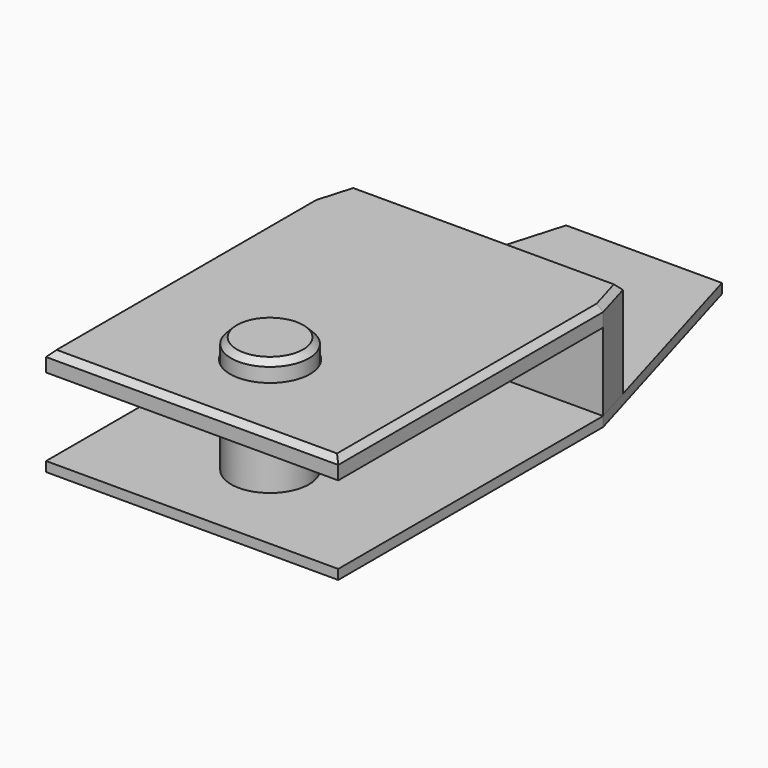
from build123d import *

# Parameters (mm, degrees)
SKETCH001_R     = 1.5
PAD_DEPTH       = 0.5
SKETCH002_R     = 2
PAD001_DEPTH    = 6
CHAMFER_SIZE    = 0.3
SKETCH003_R     = 2.05
PAD002_DEPTH    = 1
PAD003_DEPTH    = 5
CHAMFER001_SIZE = 0.3
CHAMFER002_SIZE = 0.3


with BuildPart() as back:
    # Sketch001 → Pad (new body)
    with BuildSketch(Plane.XY):
        Polygon((-7.5, -5), (7.5, -5), (7.5, 12), (4, 24), (-4, 24), (-7.5, 12), align=None)
        with Locations((0, 18)):
            Circle(SKETCH001_R, mode=Mode.SUBTRACT)
    extrude(amount=PAD_DEPTH)

    # Sketch002 (on Face9 of Pad) → Pad001 (join)
    with BuildSketch(Plane.XY.offset(0.5)):
        Circle(SKETCH002_R)
    extrude(amount=PAD001_DEPTH)

    # Chamfer
    chamfer_edges = [back.edges().sort_by_distance(p)[0] for p in [
        (-2, 0, 6.5),
    ]]
    chamfer(chamfer_edges, length=CHAMFER_SIZE)


with BuildPart() as front:
    # Sketch003 → Pad002 (new body)
    with BuildSketch(Plane.XY):
        Polygon((-7.5, 12), (-7.5, -5), (7.5, -5), (7.5, 12), (6.916667, 14), (-6.916667, 14), align=None)
        Circle(SKETCH003_R, mode=Mode.SUBTRACT)
    extrude(amount=PAD002_DEPTH)

    # Sketch004 (on Face9 of Pad002) → Pad003 (join)
    with BuildSketch(Plane.XY.offset(1)):
        Polygon((-6.916667, 14), (6.916667, 14), (7.5, 12), (-7.5, 12), align=None)
    extrude(amount=-PAD003_DEPTH)

    # Chamfer001
    chamfer001_edges = [front.edges().sort_by_distance(p)[0] for p in [
        (-2.05, 0, 0),
    ]]
    chamfer(chamfer001_edges, length=CHAMFER001_SIZE)

    # Chamfer002
    chamfer002_edges = [front.edges().sort_by_distance(p)[0] for p in [
        (7.5, 3.5, 1),
        (0, -5, 1),
        (-7.5, 3.5, 1),
        (-7.208333, 13, 1),
        (0, 14, 1),
        (7.208333, 13, 1),
    ]]
    chamfer(chamfer002_edges, length=CHAMFER002_SIZE)


with BuildPart() as front_1:
    # Body001 placement: moved
    add(front.part.moved(Location((0, 0, 4.5))))


solid = Compound([back.part, front_1.part])
